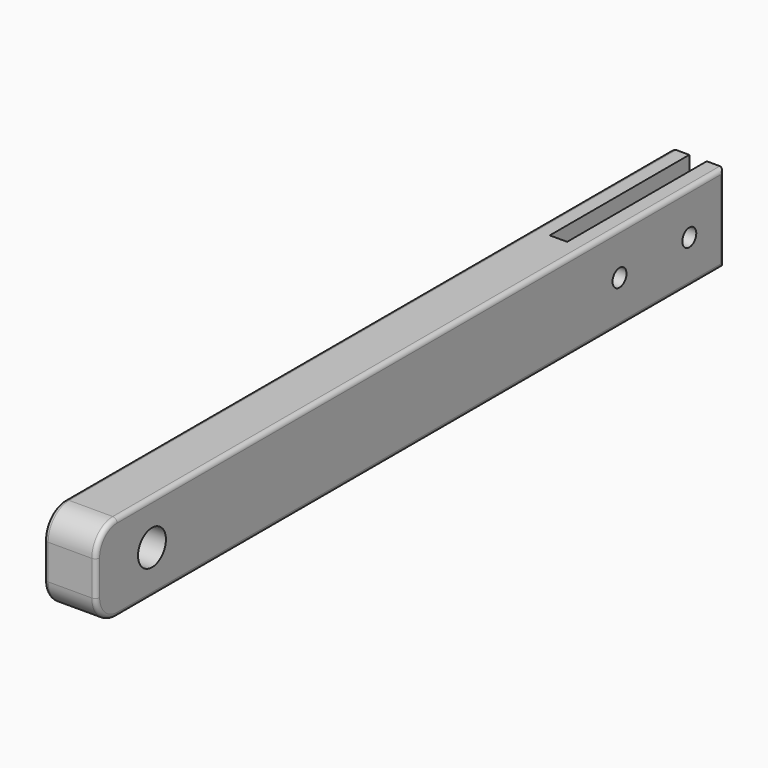
from build123d import *

# Parameters (mm, degrees)
F0_W     = 450
F0_H     = 50
F1_DEPTH = 30
F2_R     = 15
F3_W     = 10
F3_H     = 100
F4_DEPTH = 50.001
F5_R     = 2.5
F7_D     = 10
F7_DEPTH = 100
F8_R     = 10
F9_DEPTH = 30.001


with BuildPart() as f1:
    # F0 (on Right) → F1 (new body)
    with BuildSketch(Plane.YZ):
        with Locations((225, 25)):
            Rectangle(F0_W, F0_H)
    extrude(amount=F1_DEPTH)

    # F2
    f2_edges = [f1.edges().sort_by_distance(p)[0] for p in [
        (15, 0, 50),
        (15, 0, 0),
    ]]
    fillet(f2_edges, radius=F2_R)

    # F3 (on face) → F4 (cut, through all)
    with BuildSketch(Plane.XY.offset(50)):
        with Locations((15, 400)):
            Rectangle(F3_W, F3_H)
    extrude(amount=-F4_DEPTH, mode=Mode.SUBTRACT)

    # F5
    f5_edges = [f1.edges().sort_by_distance(p)[0] for p in [
        (30, 0, 25),
        (30, 4.393398, 45.606602),
        (30, 4.393398, 4.393398),
        (30, 232.5, 50),
        (30, 232.5, 0),
        (30, 450, 25),
        (0, 0, 25),
        (0, 4.393398, 45.606602),
        (0, 4.393398, 4.393398),
        (0, 232.5, 50),
        (0, 232.5, 0),
        (0, 450, 25),
    ]]
    fillet(f5_edges, radius=F5_R)

    # F7
    with Locations(Plane.YZ.offset(30)):
        with Locations((375, 25), (425, 25)):
            Hole(F7_D / 2, depth=F7_DEPTH)

    # F8 (on face) → F9 (cut, through all)
    with BuildSketch(Plane(origin=(0, 0, 0), x_dir=(0, -1, 0), z_dir=(-1, 0, 0))):
        with Locations((-40, 25)):
            Circle(F8_R)
    extrude(amount=-F9_DEPTH, mode=Mode.SUBTRACT)


solid = f1.part
